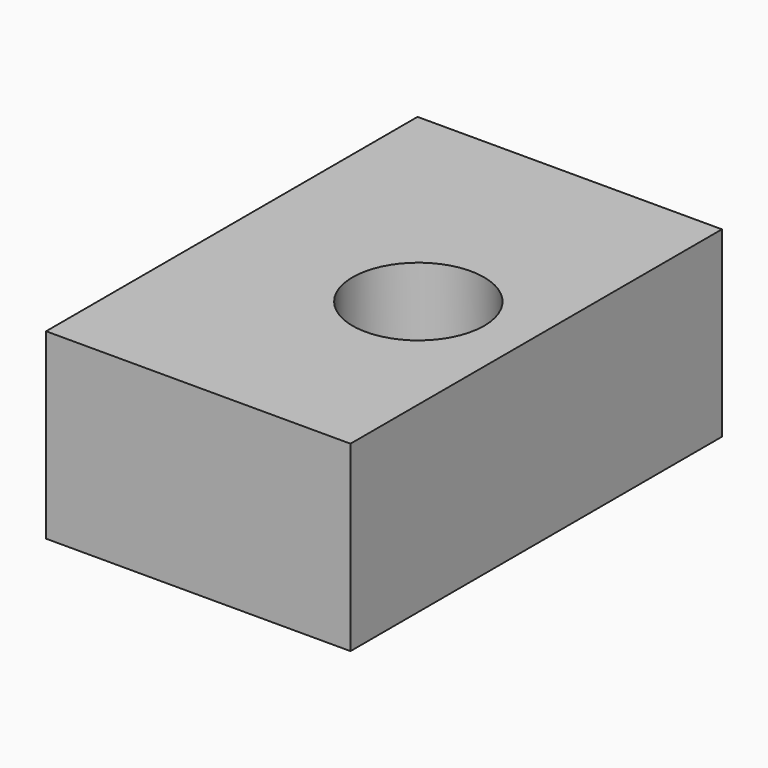
from build123d import *

# Parameters (mm, degrees)
F0_W     = 50
F0_H     = 30
F1_DEPTH = 76.269537
F2_R     = 10.806344
F3_DEPTH = 30.001


with BuildPart() as f1:
    # F0 (on Front) → F1 (new body)
    with BuildSketch(Plane.XZ):
        with Locations((-37.130086, 26.143871)):
            Rectangle(F0_W, F0_H)
        with Locations((-37.130086, 26.143871)):
            Rectangle(F0_W, F0_H)
    extrude(amount=F1_DEPTH)

    # F2 (on face) → F3 (cut, through all)
    with BuildSketch(Plane.XY.offset(41.143871)):
        with Locations((-30, -40)):
            Circle(F2_R)
        with Locations((-30, -40)):
            Circle(F2_R)
    extrude(amount=-F3_DEPTH, mode=Mode.SUBTRACT)


solid = f1.part
